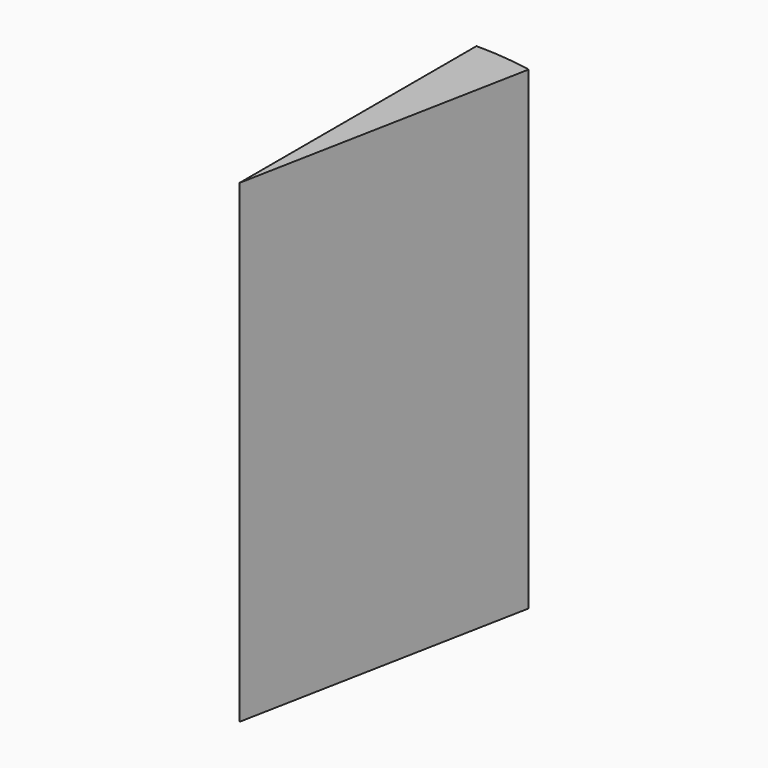
from build123d import *

# Parameters (mm, degrees)
F2_DEPTH = 203.2


with BuildPart() as f2:
    # F1 (on face) → F2 (new body)
    with BuildSketch(Plane.XY):
        with BuildLine():
            Line((0, 127), (0, 0))
            Line((0, 0), (24.232742, 124.666652))
            ThreePointArc((24.232742, 124.666652), (12.172411, 126.415317), (0, 127))
        make_face()
    extrude(amount=F2_DEPTH)


solid = f2.part
